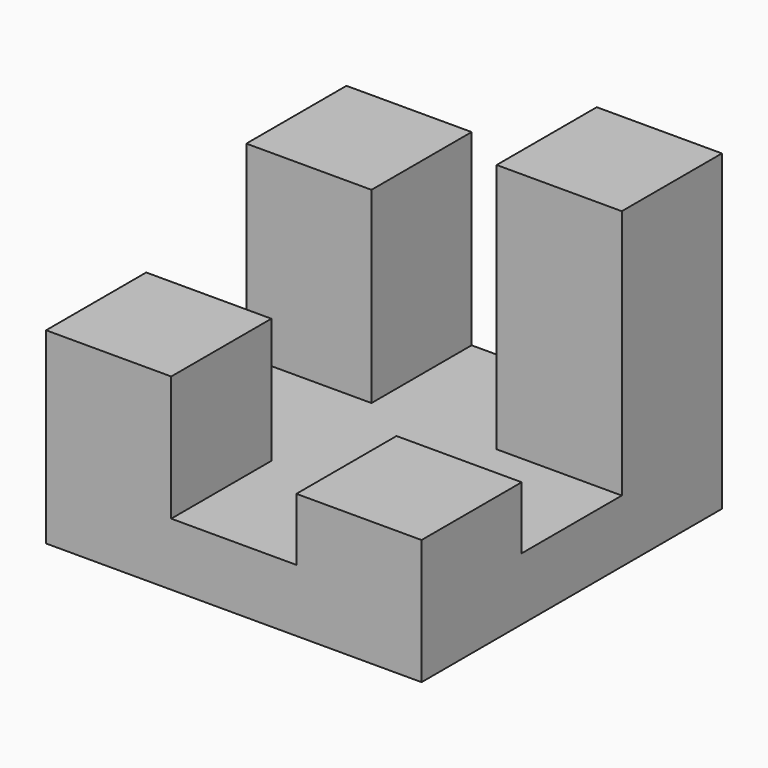
from build123d import *

# Parameters (mm, degrees)
F0_W      = 76.2
F0_H      = 12.7
F1_DEPTH  = 76.2
F2_W      = 25.4
F2_H      = 25.4
F3_DEPTH  = 12.7
F3_FACE_W = 25.4
F3_FACE_H = 25.4
F4_DEPTH  = 12.7
F5_DEPTH  = 38.1
F6_DEPTH  = 25.4


with BuildPart() as f1:
    # F0 (on Right) → F1 (new body)
    with BuildSketch(Plane.YZ):
        with Locations((2.160154, -37.671763)):
            Rectangle(F0_W, F0_H)
    extrude(amount=-F1_DEPTH)

    # F2 (on face) → F3 (join)
    with BuildSketch(Plane.XY.offset(-31.321763)):
        with Locations((-12.7, -23.239846)):
            Rectangle(F2_W, F2_H)
        with Locations((-63.5, -23.239846)):
            Rectangle(F2_W, F2_H)
        with Locations((-12.7, 27.560154)):
            Rectangle(F2_W, F2_H)
        with Locations((-63.5, 27.560154)):
            Rectangle(F2_W, F2_H)
    extrude(amount=F3_DEPTH)

    # F3_face (on face) → F4 (join)
    with BuildSketch(Plane(origin=(-63.5, -23.239846, -18.621763), x_dir=(1, 0, 0), z_dir=(0, 0, 1))):
        Rectangle(F3_FACE_W, F3_FACE_H)
    extrude(amount=F4_DEPTH)

    # F3_face (on face) → F5 (join)
    with BuildSketch(Plane(origin=(-63.5, -23.239846, -18.621763), x_dir=(1, 0, 0), z_dir=(0, 0, 1))):
        with Locations((50.8, 50.8)):
            Rectangle(F3_FACE_W, F3_FACE_H)
    extrude(amount=F5_DEPTH)

    # F3_face (on face) → F6 (join)
    with BuildSketch(Plane(origin=(-63.5, -23.239846, -18.621763), x_dir=(1, 0, 0), z_dir=(0, 0, 1))):
        with Locations((0, 50.8)):
            Rectangle(F3_FACE_W, F3_FACE_H)
    extrude(amount=F6_DEPTH)


solid = f1.part
